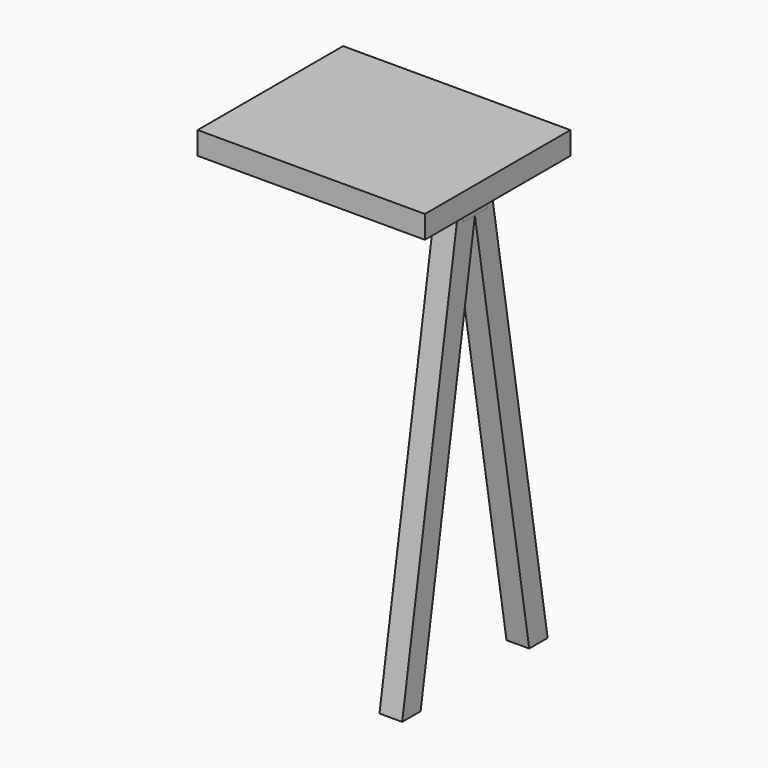
from build123d import *

# Parameters (mm, degrees)
F0_W     = 381
F0_H     = 304.8
F1_DEPTH = 38.1
F2_W     = 304.8
F2_H     = 50.8
F3_DEPTH = 38.1
F5_DEPTH = 38.1


with BuildPart() as f1:
    # F0 (on Top) → F1 (new body)
    with BuildSketch(Plane.XY):
        with Locations((190.5, 152.4)):
            Rectangle(F0_W, F0_H)
    extrude(amount=F1_DEPTH)


with BuildPart() as f3:
    # F2 (on face) → F3 (new body)
    with BuildSketch(Plane(origin=(0, 0, 0), x_dir=(1, 0, 0), z_dir=(0, 0, -1))):
        with Locations((190.5, -152.4)):
            Rectangle(F2_W, F2_H)
    extrude(amount=F3_DEPTH)


with BuildPart() as f5:
    # F4 (on face) → F5 (new body)
    with BuildSketch(Plane.YZ.offset(342.9)):
        Polygon((127, 0), (120.100271, 0), (0, -723.9), (38.620796, -723.9), (152.4, -38.1), (127, -38.1), align=None)
        Polygon((177.8, -38.1), (152.4, -38.1), (266.179204, -723.9), (304.8, -723.9), (184.699729, 0), (177.8, 0), align=None)
    extrude(amount=-F5_DEPTH)


solid = Compound([f1.part, f3.part, f5.part])
